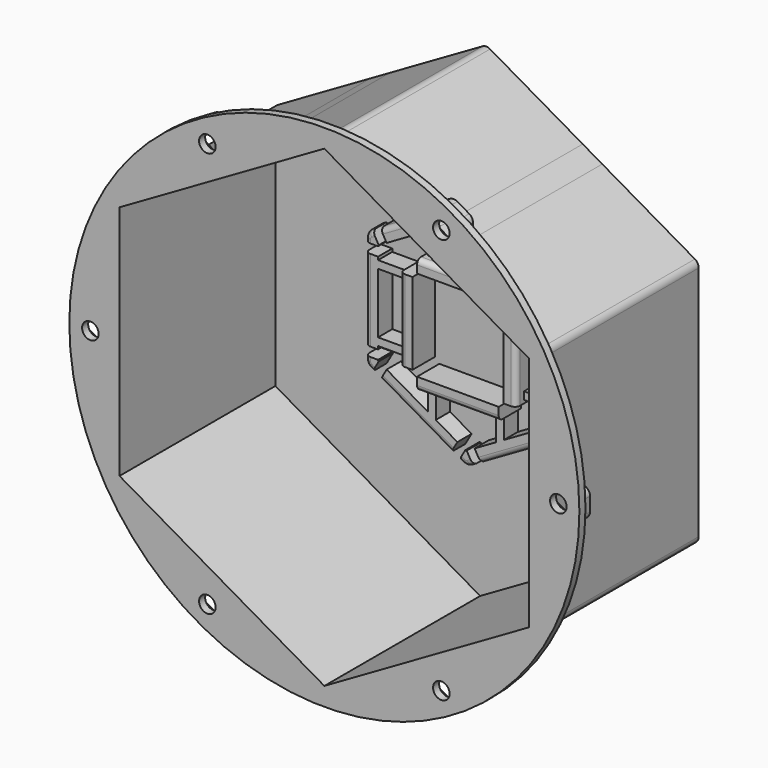
from build123d import *

# Parameters (mm, degrees)
F0_W     = 11.764
F0_H     = 3
F0_H_2   = 23.8
F0_W_2   = 5
F0_H_3   = 3.6
F1_DEPTH = 3
F2_DEPTH = 79.8
F3_START = 76.8
F0_R     = 100.55
F3_DEPTH = 3
F4_START = 73.8
F0_W_3   = 0.8
F0_H_4   = 8.8911941455
F4_DEPTH = 6
F5_D     = 6.5278
F6_DEPTH = 14
F7_R     = 2
F8_DEPTH = 10
F9_R     = 2


with BuildPart() as f1:
    # F0 (on Front) → F1 (new body)
    with BuildSketch(Plane.XZ):
        Polygon((0, -93.2420684741), (80.75, -46.6210342371), (80.75, 46.6210342371), (0, 93.2420684741), (-80.75, 46.6210342371), (-80.75, -46.6210342371), align=None)
        with BuildLine():
            ThreePointArc((39.664, -21.1679702696), (39.2620762114, -22.6679702696), (38.164, -23.7660464809))
            Line((38.164, -23.7660464809), (36.8927187079, -24.5000210771))
            Line((36.8927187079, -24.5000210771), (33.7750272543, -26.3000210771))
            Line((33.7750272543, -26.3000210771), (5.8889727457, -42.4000421543))
            Line((5.8889727457, -42.4000421543), (2.7712812921, -44.2000421543))
            Line((2.7712812921, -44.2000421543), (1.5, -44.9340167505))
            ThreePointArc((1.5, -44.9340167505), (0, -45.3359405391), (-1.5, -44.9340167505))
            Line((-1.5, -44.9340167505), (-2.7712812921, -44.2000421543))
            Line((-2.7712812921, -44.2000421543), (-5.8889727457, -42.4000421543))
            Line((-5.8889727457, -42.4000421543), (-33.7750272543, -26.3000210771))
            Line((-33.7750272543, -26.3000210771), (-36.8927187079, -24.5000210771))
            Line((-36.8927187079, -24.5000210771), (-38.164, -23.7660464809))
            ThreePointArc((-38.164, -23.7660464809), (-39.2620762114, -22.6679702696), (-39.664, -21.1679702696))
            Line((-39.664, -21.1679702696), (-39.664, -19.7000210771))
            Line((-39.664, -19.7000210771), (-39.664, -16.1000210771))
            Line((-39.664, -16.1000210771), (-39.664, 16.1000210771))
            Line((-39.664, 16.1000210771), (-39.664, 19.7000210771))
            Line((-39.664, 19.7000210771), (-39.664, 21.1679702696))
            ThreePointArc((-39.664, 21.1679702696), (-39.2620762114, 22.6679702696), (-38.164, 23.7660464809))
            Line((-38.164, 23.7660464809), (-36.8927187079, 24.5000210771))
            Line((-36.8927187079, 24.5000210771), (-33.7750272543, 26.3000210771))
            Line((-33.7750272543, 26.3000210771), (-5.8889727457, 42.4000421543))
            Line((-5.8889727457, 42.4000421543), (-2.7712812921, 44.2000421543))
            Line((-2.7712812921, 44.2000421543), (-1.5, 44.9340167505))
            ThreePointArc((-1.5, 44.9340167505), (0, 45.3359405391), (1.5, 44.9340167505))
            Line((1.5, 44.9340167505), (2.7712812921, 44.2000421543))
            Line((2.7712812921, 44.2000421543), (5.8889727457, 42.4000421543))
            Line((5.8889727457, 42.4000421543), (33.7750272543, 26.3000210771))
            Line((33.7750272543, 26.3000210771), (36.8927187079, 24.5000210771))
            Line((36.8927187079, 24.5000210771), (38.164, 23.7660464809))
            ThreePointArc((38.164, 23.7660464809), (39.2620762114, 22.6679702696), (39.664, 21.1679702696))
            Line((39.664, 21.1679702696), (39.664, 19.7000210771))
            Line((39.664, 19.7000210771), (39.664, 16.1000210771))
            Line((39.664, 16.1000210771), (39.664, -16.1000210771))
            Line((39.664, -16.1000210771), (39.664, -19.7000210771))
            Line((39.664, -19.7000210771), (39.664, -21.1679702696))
        make_face(mode=Mode.SUBTRACT)
        with BuildLine():
            Line((31.2750272543, -21.9698940582), (34.3927187079, -20.1698940582))
            Line((34.3927187079, -20.1698940582), (34.664, -20.0132697312))
            Line((34.664, -20.0132697312), (34.664, -19.7000210771))
            Line((34.664, -19.7000210771), (34.664, -16.1000210771))
            Line((34.664, -16.1000210771), (34.664, -14.9))
            Line((34.664, -14.9), (22.9, -14.9))
            Line((22.9, -14.9), (22.9, -16.1))
            Line((22.9, -16.1), (22.9, -19.9))
            ThreePointArc((22.9, -19.9), (22.0213203436, -22.0213203436), (19.9, -22.9))
            Line((19.9, -22.9), (16.1, -22.9))
            Line((16.1, -22.9), (14.9, -22.9))
            Line((14.9, -22.9), (14.9, -31.4240204515))
            Line((14.9, -31.4240204515), (31.2750272543, -21.9698940582))
        make_face()
        Polygon((0.2712812921, -39.8699151354), (3.3889727457, -38.0699151354), (11.9, -33.156071259), (11.9, -22.9), (-11.9, -22.9), (-11.9, -33.156071259), (-3.3889727457, -38.0699151354), (-0.2712812921, -39.8699151354), (0, -40.0265394624), align=None)
        Polygon((-16.1, -17.9), (16.1, -17.9), (17.9, -17.9), (17.9, -16.1), (17.9, 16.1), (17.9, 17.9), (16.1, 17.9), (-16.1, 17.9), (-17.9, 17.9), (-17.9, 16.1), (-17.9, -16.1), (-17.9, -17.9), align=None)
        with BuildLine():
            Line((-22.9, 14.9), (-22.9, 16.1))
            Line((-22.9, 16.1), (-22.9, 19.9))
            ThreePointArc((-22.9, 19.9), (-22.0213203436, 22.0213203436), (-19.9, 22.9))
            Line((-19.9, 22.9), (-16.1, 22.9))
            Line((-16.1, 22.9), (-14.9, 22.9))
            Line((-14.9, 22.9), (-14.9, 31.4240204515))
            Line((-14.9, 31.4240204515), (-31.2750272543, 21.9698940582))
            Line((-31.2750272543, 21.9698940582), (-34.3927187079, 20.1698940582))
            Line((-34.3927187079, 20.1698940582), (-34.664, 20.0132697312))
            Line((-34.664, 20.0132697312), (-34.664, 19.7000210771))
            Line((-34.664, 19.7000210771), (-34.664, 16.1000210771))
            Line((-34.664, 16.1000210771), (-34.664, 14.9))
            Line((-34.664, 14.9), (-22.9, 14.9))
        make_face()
        Polygon((-14.9, 22.9), (-11.9, 22.9), (-11.9, 33.156071259), (-14.9, 31.4240204515), align=None)
        Polygon((11.9, 33.156071259), (3.3889727457, 38.0699151354), (0.2712812921, 39.8699151354), (0, 40.0265394624), (-0.2712812921, 39.8699151354), (-3.3889727457, 38.0699151354), (-11.9, 33.156071259), (-11.9, 22.9), (11.9, 22.9), align=None)
        Polygon((14.9, 22.9), (14.9, 31.4240204515), (11.9, 33.156071259), (11.9, 22.9), align=None)
        with BuildLine():
            Line((34.664, 14.9), (34.664, 16.1000210771))
            Line((34.664, 16.1000210771), (34.664, 19.7000210771))
            Line((34.664, 19.7000210771), (34.664, 20.0132697312))
            Line((34.664, 20.0132697312), (34.3927187079, 20.1698940582))
            Line((34.3927187079, 20.1698940582), (31.2750272543, 21.9698940582))
            Line((31.2750272543, 21.9698940582), (14.9, 31.4240204515))
            Line((14.9, 31.4240204515), (14.9, 22.9))
            Line((14.9, 22.9), (16.1, 22.9))
            Line((16.1, 22.9), (19.9, 22.9))
            ThreePointArc((19.9, 22.9), (22.0213203436, 22.0213203436), (22.9, 19.9))
            Line((22.9, 19.9), (22.9, 16.1))
            Line((22.9, 16.1), (22.9, 14.9))
            Line((22.9, 14.9), (34.664, 14.9))
        make_face()
        with Locations((28.782, 13.4)):
            Rectangle(F0_W, F0_H)
        with Locations((28.782, 0)):
            Rectangle(F0_W, F0_H_2)
        with Locations((28.782, -13.4)):
            Rectangle(F0_W, F0_H)
        with BuildLine():
            Line((31.2750272543, -21.9698940582), (34.3927187079, -20.1698940582))
            Line((34.3927187079, -20.1698940582), (34.664, -20.0132697312))
            Line((34.664, -20.0132697312), (34.664, -19.7000210771))
            Line((34.664, -19.7000210771), (34.664, -16.1000210771))
            Line((34.664, -16.1000210771), (34.664, -14.9))
            Line((34.664, -14.9), (22.9, -14.9))
            Line((22.9, -14.9), (22.9, -16.1))
            Line((22.9, -16.1), (22.9, -19.9))
            ThreePointArc((22.9, -19.9), (22.0213203436, -22.0213203436), (19.9, -22.9))
            Line((19.9, -22.9), (16.1, -22.9))
            Line((16.1, -22.9), (14.9, -22.9))
            Line((14.9, -22.9), (14.9, -31.4240204515))
            Line((14.9, -31.4240204515), (31.2750272543, -21.9698940582))
        make_face()
        Polygon((0.2712812921, -39.8699151354), (3.3889727457, -38.0699151354), (11.9, -33.156071259), (11.9, -22.9), (-11.9, -22.9), (-11.9, -33.156071259), (-3.3889727457, -38.0699151354), (-0.2712812921, -39.8699151354), (0, -40.0265394624), align=None)
        Polygon((-11.9, -33.156071259), (-11.9, -22.9), (-14.9, -22.9), (-14.9, -31.4240204515), align=None)
        with BuildLine():
            Line((-14.9, -31.4240204515), (-14.9, -22.9))
            Line((-14.9, -22.9), (-16.1, -22.9))
            Line((-16.1, -22.9), (-19.9, -22.9))
            ThreePointArc((-19.9, -22.9), (-22.0213203436, -22.0213203436), (-22.9, -19.9))
            Line((-22.9, -19.9), (-22.9, -16.1))
            Line((-22.9, -16.1), (-22.9, -14.9))
            Line((-22.9, -14.9), (-34.664, -14.9))
            Line((-34.664, -14.9), (-34.664, -16.1000210771))
            Line((-34.664, -16.1000210771), (-34.664, -19.7000210771))
            Line((-34.664, -19.7000210771), (-34.664, -20.0132697312))
            Line((-34.664, -20.0132697312), (-34.3927187079, -20.1698940582))
            Line((-34.3927187079, -20.1698940582), (-31.2750272543, -21.9698940582))
            Line((-31.2750272543, -21.9698940582), (-14.9, -31.4240204515))
        make_face()
        with Locations((-28.782, -13.4)):
            Rectangle(F0_W, F0_H)
        with Locations((-28.782, 0)):
            Rectangle(F0_W, F0_H_2)
        with Locations((-28.782, 13.4)):
            Rectangle(F0_W, F0_H)
        Polygon((3.3889727457, 38.0699151354), (5.8889727457, 42.4000421543), (2.7712812921, 44.2000421543), (0.2712812921, 39.8699151354), align=None)
        Polygon((34.3927187079, 20.1698940582), (36.8927187079, 24.5000210771), (33.7750272543, 26.3000210771), (31.2750272543, 21.9698940582), align=None)
        Polygon((-0.2712812921, 39.8699151354), (-2.7712812921, 44.2000421543), (-5.8889727457, 42.4000421543), (-3.3889727457, 38.0699151354), align=None)
        with Locations((-37.164, 17.9000210771)):
            Rectangle(F0_W_2, F0_H_3)
        with Locations((-37.164, -17.9000210771)):
            Rectangle(F0_W_2, F0_H_3)
        Polygon((-5.8889727457, -42.4000421543), (-2.7712812921, -44.2000421543), (-0.2712812921, -39.8699151354), (-3.3889727457, -38.0699151354), align=None)
        Polygon((2.7712812921, -44.2000421543), (5.8889727457, -42.4000421543), (3.3889727457, -38.0699151354), (0.2712812921, -39.8699151354), align=None)
        Polygon((33.7750272543, -26.3000210771), (36.8927187079, -24.5000210771), (34.3927187079, -20.1698940582), (31.2750272543, -21.9698940582), align=None)
        with Locations((37.164, -17.9000210771)):
            Rectangle(F0_W_2, F0_H_3)
        with Locations((37.164, 17.9000210771)):
            Rectangle(F0_W_2, F0_H_3)
        Polygon((-31.2750272543, 21.9698940582), (-33.7750272543, 26.3000210771), (-36.8927187079, 24.5000210771), (-34.3927187079, 20.1698940582), align=None)
        Polygon((-36.8927187079, -24.5000210771), (-33.7750272543, -26.3000210771), (-31.2750272543, -21.9698940582), (-34.3927187079, -20.1698940582), align=None)
        with BuildLine():
            Line((17.9, 16.1), (22.9, 16.1))
            Line((22.9, 16.1), (22.9, 19.9))
            ThreePointArc((22.9, 19.9), (22.0213203436, 22.0213203436), (19.9, 22.9))
            Line((19.9, 22.9), (16.1, 22.9))
            Line((16.1, 22.9), (16.1, 17.9))
            Line((16.1, 17.9), (17.9, 17.9))
            Line((17.9, 17.9), (17.9, 16.1))
        make_face()
        with BuildLine():
            Line((-22.9, 16.1), (-17.9, 16.1))
            Line((-17.9, 16.1), (-17.9, 17.9))
            Line((-17.9, 17.9), (-16.1, 17.9))
            Line((-16.1, 17.9), (-16.1, 22.9))
            Line((-16.1, 22.9), (-19.9, 22.9))
            ThreePointArc((-19.9, 22.9), (-22.0213203436, 22.0213203436), (-22.9, 19.9))
            Line((-22.9, 19.9), (-22.9, 16.1))
        make_face()
        with BuildLine():
            Line((-16.1, -22.9), (-16.1, -17.9))
            Line((-16.1, -17.9), (-17.9, -17.9))
            Line((-17.9, -17.9), (-17.9, -16.1))
            Line((-17.9, -16.1), (-22.9, -16.1))
            Line((-22.9, -16.1), (-22.9, -19.9))
            ThreePointArc((-22.9, -19.9), (-22.0213203436, -22.0213203436), (-19.9, -22.9))
            Line((-19.9, -22.9), (-16.1, -22.9))
        make_face()
        with BuildLine():
            Line((16.1, -17.9), (16.1, -22.9))
            Line((16.1, -22.9), (19.9, -22.9))
            ThreePointArc((19.9, -22.9), (22.0213203436, -22.0213203436), (22.9, -19.9))
            Line((22.9, -19.9), (22.9, -16.1))
            Line((22.9, -16.1), (17.9, -16.1))
            Line((17.9, -16.1), (17.9, -17.9))
            Line((17.9, -17.9), (16.1, -17.9))
        make_face()
        Polygon((11.9, -33.156071259), (14.9, -31.4240204515), (14.9, -22.9), (11.9, -22.9), align=None)
    extrude(amount=F1_DEPTH)

    # F0 (on Front) → F2 (join)
    with BuildSketch(Plane.XZ):
        with BuildLine():
            Line((83.75, 4.4455970728), (83.75, 46.6210342371))
            ThreePointArc((83.75, 46.6210342371), (83.3480762114, 48.1210342371), (82.25, 49.2191104484))
            Line((82.25, 49.2191104484), (45.725, 70.3068290306))
            Line((45.725, 70.3068290306), (38.025, 74.7524261033))
            Line((38.025, 74.7524261033), (1.5, 95.8401446855))
            ThreePointArc((1.5, 95.8401446855), (0, 96.2420684741), (-1.5, 95.8401446855))
            Line((-1.5, 95.8401446855), (-38.025, 74.7524261033))
            Line((-38.025, 74.7524261033), (-45.725, 70.3068290306))
            Line((-45.725, 70.3068290306), (-82.25, 49.2191104484))
            ThreePointArc((-82.25, 49.2191104484), (-83.3480762114, 48.1210342371), (-83.75, 46.6210342371))
            Line((-83.75, 46.6210342371), (-83.75, 4.1800841187))
            Line((-83.75, 4.1800841187), (-83.75, -3.9581455377))
            Line((-83.75, -3.9581455377), (-83.75, -46.6210342371))
            ThreePointArc((-83.75, -46.6210342371), (-83.3480762114, -48.1210342371), (-82.25, -49.2191104484))
            Line((-82.25, -49.2191104484), (-45.7833874392, -70.2731190268))
            Line((-45.7833874392, -70.2731190268), (-38.0831462279, -74.718855363))
            Line((-38.0831462279, -74.718855363), (-1.5, -95.8401446855))
            ThreePointArc((-1.5, -95.8401446855), (0, -96.2420684741), (1.5, -95.8401446855))
            Line((1.5, -95.8401446855), (38.1444882108, -74.6834395526))
            Line((38.1444882108, -74.6834395526), (45.8568599601, -70.2306996471))
            Line((45.8568599601, -70.2306996471), (82.25, -49.2191104484))
            ThreePointArc((82.25, -49.2191104484), (83.3480762114, -48.1210342371), (83.75, -46.6210342371))
            Line((83.75, -46.6210342371), (83.75, -4.4455970728))
            Line((83.75, -4.4455970728), (83.75, 4.4455970728))
        make_face()
        Polygon((80.75, 46.6210342371), (80.75, -46.6210342371), (0, -93.2420684741), (-80.75, -46.6210342371), (-80.75, 46.6210342371), (0, 93.2420684741), align=None, mode=Mode.SUBTRACT)
    extrude(amount=F2_DEPTH)

    # F0 (on Front) → F3 (join)
    with BuildSketch(Plane.XZ.offset(F3_START)):
        Circle(F0_R)
        with BuildLine():
            ThreePointArc((82.25, 49.2191104484), (83.3480762114, 48.1210342371), (83.75, 46.6210342371))
            Line((83.75, 46.6210342371), (83.75, 4.4455970728))
            Line((83.75, 4.4455970728), (84.55, 4.4455970728))
            Line((84.55, 4.4455970728), (90.75, 8.0251687417))
            ThreePointArc((90.75, 8.0251687417), (92.25, 8.4270925304), (93.75, 8.0251687417))
            Line((93.75, 8.0251687417), (98.45, 5.3116224765))
            ThreePointArc((98.45, 5.3116224765), (99.5480762114, 4.2135462652), (99.95, 2.7135462652))
            Line((99.95, 2.7135462652), (99.95, -2.7135462652))
            ThreePointArc((99.95, -2.7135462652), (99.5480762114, -4.2135462652), (98.45, -5.3116224765))
            Line((98.45, -5.3116224765), (93.75, -8.0251687417))
            ThreePointArc((93.75, -8.0251687417), (92.25, -8.4270925304), (90.75, -8.0251687417))
            Line((90.75, -8.0251687417), (84.55, -4.4455970728))
            Line((84.55, -4.4455970728), (83.75, -4.4455970728))
            Line((83.75, -4.4455970728), (83.75, -46.6210342371))
            ThreePointArc((83.75, -46.6210342371), (83.3480762114, -48.1210342371), (82.25, -49.2191104484))
            Line((82.25, -49.2191104484), (45.8568599601, -70.2306996471))
            Line((45.8568599601, -70.2306996471), (46.2835018729, -71.0010622594))
            Line((46.2835018729, -71.0010622594), (52.4187041842, -74.6905914884))
            ThreePointArc((52.4187041842, -74.6905914884), (53.4970306734, -75.8080684299), (53.8721503359, -77.3149950939))
            Line((53.8721503359, -77.3149950939), (53.7754024395, -82.7412252012))
            ThreePointArc((53.7754024395, -82.7412252012), (53.3468022646, -84.2338218051), (52.2293253232, -85.3121482943))
            Line((52.2293253232, -85.3121482943), (47.4816982552, -87.9414772119))
            ThreePointArc((47.4816982552, -87.9414772119), (45.9747715912, -88.3165968744), (44.4821749873, -87.8879966995))
            Line((44.4821749873, -87.8879966995), (39.8312958158, -85.0910955098))
            ThreePointArc((39.8312958158, -85.0910955098), (38.7529693266, -83.9736185684), (38.3778496641, -82.4666919043))
            Line((38.3778496641, -82.4666919043), (38.5054745488, -75.3086862308))
            Line((38.5054745488, -75.3086862308), (38.1444882108, -74.6834395526))
            Line((38.1444882108, -74.6834395526), (1.5, -95.8401446855))
            ThreePointArc((1.5, -95.8401446855), (0, -96.2420684741), (-1.5, -95.8401446855))
            Line((-1.5, -95.8401446855), (-38.0831462279, -74.718855363))
            Line((-38.0831462279, -74.718855363), (-38.460428699, -75.3844391559))
            Line((-38.460428699, -75.3844391559), (-38.4037631222, -82.5433582325))
            ThreePointArc((-38.4037631222, -82.5433582325), (-38.79380162, -84.0464925253), (-39.8831520139, -85.1532257593))
            Line((-39.8831520139, -85.1532257593), (-44.5615267041, -87.9038881506))
            ThreePointArc((-44.5615267041, -87.9038881506), (-46.0582984359, -88.3176720495), (-47.5614327287, -87.9276335517))
            Line((-47.5614327287, -87.9276335517), (-52.2827635819, -85.2513734172))
            ThreePointArc((-52.2827635819, -85.2513734172), (-53.3894968159, -84.1620230233), (-53.8032807148, -82.6652512916))
            Line((-53.8032807148, -82.6652512916), (-53.8462368778, -77.2383287657))
            ThreePointArc((-53.8462368778, -77.2383287657), (-53.45619838, -75.7351944729), (-52.3668479861, -74.628461239))
            Line((-52.3668479861, -74.628461239), (-46.1953749905, -70.9999278717))
            Line((-46.1953749905, -70.9999278717), (-45.7833874392, -70.2731190268))
            Line((-45.7833874392, -70.2731190268), (-82.25, -49.2191104484))
            ThreePointArc((-82.25, -49.2191104484), (-83.3480762114, -48.1210342371), (-83.75, -46.6210342371))
            Line((-83.75, -46.6210342371), (-83.75, -3.9581455377))
            Line((-83.75, -3.9581455377), (-85.1501733085, -3.9764250951))
            Line((-85.1501733085, -3.9764250951), (-90.6552047962, -7.2513100663))
            ThreePointArc((-90.6552047962, -7.2513100663), (-92.149830231, -7.6727807551), (-93.654949171, -7.290472361))
            Line((-93.654949171, -7.290472361), (-97.7324211262, -5.0067881935))
            ThreePointArc((-97.7324211262, -5.0067881935), (-98.844738167, -3.9231399422), (-99.2662088558, -2.4285145074))
            Line((-99.2662088558, -2.4285145074), (-99.3272163301, 2.2445218728))
            ThreePointArc((-99.3272163301, 2.2445218728), (-98.9449079361, 3.7496408129), (-97.8612596847, 4.8619578537))
            Line((-97.8612596847, 4.8619578537), (-93.8447952038, 7.2513100663))
            ThreePointArc((-93.8447952038, 7.2513100663), (-92.350169769, 7.6727807551), (-90.845050829, 7.290472361))
            Line((-90.845050829, 7.290472361), (-85.2564015056, 4.1604177297))
            Line((-85.2564015056, 4.1604177297), (-83.75, 4.1800841187))
            Line((-83.75, 4.1800841187), (-83.75, 46.6210342371))
            ThreePointArc((-83.75, 46.6210342371), (-83.3480762114, 48.1210342371), (-82.25, 49.2191104484))
            Line((-82.25, 49.2191104484), (-45.725, 70.3068290306))
            Line((-45.725, 70.3068290306), (-46.125, 70.9996493536))
            Line((-46.125, 70.9996493536), (-52.325, 74.5792210226))
            ThreePointArc((-52.325, 74.5792210226), (-53.4230762114, 75.6772972339), (-53.825, 77.1772972339))
            Line((-53.825, 77.1772972339), (-53.825, 82.6043897643))
            ThreePointArc((-53.825, 82.6043897643), (-53.4230762114, 84.1043897643), (-52.325, 85.2024659757))
            Line((-52.325, 85.2024659757), (-47.625, 87.9160122409))
            ThreePointArc((-47.625, 87.9160122409), (-46.125, 88.3179360295), (-44.625, 87.9160122409))
            Line((-44.625, 87.9160122409), (-39.925, 85.2024659757))
            ThreePointArc((-39.925, 85.2024659757), (-38.8269237886, 84.1043897643), (-38.425, 82.6043897643))
            Line((-38.425, 82.6043897643), (-38.425, 75.4452464264))
            Line((-38.425, 75.4452464264), (-38.025, 74.7524261033))
            Line((-38.025, 74.7524261033), (-1.5, 95.8401446855))
            ThreePointArc((-1.5, 95.8401446855), (0, 96.2420684741), (1.5, 95.8401446855))
            Line((1.5, 95.8401446855), (38.025, 74.7524261033))
            Line((38.025, 74.7524261033), (38.425, 75.4452464264))
            Line((38.425, 75.4452464264), (38.425, 82.6043897643))
            ThreePointArc((38.425, 82.6043897643), (38.8269237886, 84.1043897643), (39.925, 85.2024659757))
            Line((39.925, 85.2024659757), (44.625, 87.9160122409))
            ThreePointArc((44.625, 87.9160122409), (46.125, 88.3179360295), (47.625, 87.9160122409))
            Line((47.625, 87.9160122409), (52.325, 85.2024659757))
            ThreePointArc((52.325, 85.2024659757), (53.4230762114, 84.1043897643), (53.825, 82.6043897643))
            Line((53.825, 82.6043897643), (53.825, 77.1772972339))
            ThreePointArc((53.825, 77.1772972339), (53.4230762114, 75.6772972339), (52.325, 74.5792210226))
            Line((52.325, 74.5792210226), (46.125, 70.9996493536))
            Line((46.125, 70.9996493536), (45.725, 70.3068290306))
            Line((45.725, 70.3068290306), (82.25, 49.2191104484))
        make_face(mode=Mode.SUBTRACT)
    extrude(amount=F3_DEPTH)



with BuildPart() as f3:
    # F0 (on Front) → F3, piece 2 (new body)
    with BuildSketch(Plane.XZ.offset(F3_START)):
        Polygon((-46.2600288495, 73.3104356691), (-40.4937140766, 76.4837011702), (-40.3586852272, 83.0641090003), (-45.9899711505, 86.4712513292), (-51.7562859234, 83.297985828), (-51.8913147728, 76.717577998), align=None)
    extrude(amount=F3_DEPTH)


with BuildPart() as f3b:
    # F0 (on Front) → F3, piece 3 (new body)
    with BuildSketch(Plane.XZ.offset(F3_START)):
        Polygon((51.825, 76.5999469647), (51.825, 83.1817400335), (46.125, 86.4726365679), (40.425, 83.1817400335), (40.425, 76.5999469647), (46.125, 73.3090504304), align=None)
    extrude(amount=F3_DEPTH)


with BuildPart() as f3c:
    # F0 (on Front) → F3, piece 4 (new body)
    with BuildSketch(Plane.XZ.offset(F3_START)):
        Polygon((92.25, -6.5817930688), (97.95, -3.2908965344), (97.95, 3.2908965344), (92.25, 6.5817930688), (86.55, 3.2908965344), (86.55, -3.2908965344), align=None)
    extrude(amount=F3_DEPTH)


with BuildPart() as f3d:
    # F0 (on Front) → F3, piece 5 (new body)
    with BuildSketch(Plane.XZ.offset(F3_START)):
        Polygon((46.0076674448, -86.4715906506), (51.7654279314, -83.2828300484), (51.8827604867, -76.7020828969), (46.2423325552, -73.3100963477), (40.4845720686, -76.4988569499), (40.3672395133, -83.0796041013), align=None)
    extrude(amount=F3_DEPTH)


with BuildPart() as f3e:
    # F0 (on Front) → F3, piece 6 (new body)
    with BuildSketch(Plane.XZ.offset(F3_START)):
        Polygon((-46.0729042278, -86.4724303921), (-40.3991306673, -83.1365206835), (-40.4512264395, -76.5549337905), (-46.1770957722, -73.3092566061), (-51.8508693327, -76.6451663147), (-51.7987735605, -83.2267532078), align=None)
    extrude(amount=F3_DEPTH)


with BuildPart() as f3f:
    # F0 (on Front) → F3, piece 7 (new body)
    with BuildSketch(Plane.XZ.offset(F3_START)):
        Polygon((-92.1640806267, -6.5812322449), (-86.5075260011, -3.2162077625), (-86.5934453744, 3.3650244824), (-92.3359193733, 6.5812322449), (-97.9924739989, 3.2162077625), (-97.9065546256, -3.3650244824), align=None)
    extrude(amount=F3_DEPTH)


with BuildPart() as f1_1:
    add(f1.part)

    add(f3.part)  # F4 merges F3

    add(f3b.part)  # F4 merges F3b

    add(f3c.part)  # F4 merges F3c

    add(f3d.part)  # F4 merges F3d

    add(f3e.part)  # F4 merges F3e

    add(f3f.part)  # F4 merges F3f
    # F0 (on Front) → F4 (join)
    with BuildSketch(Plane.XZ.offset(F4_START)):
        with BuildLine():
            Line((-46.125, 70.9996493536), (-38.425, 75.4452464264))
            Line((-38.425, 75.4452464264), (-38.425, 82.6043897643))
            ThreePointArc((-38.425, 82.6043897643), (-38.8269237886, 84.1043897643), (-39.925, 85.2024659757))
            Line((-39.925, 85.2024659757), (-44.625, 87.9160122409))
            ThreePointArc((-44.625, 87.9160122409), (-46.125, 88.3179360295), (-47.625, 87.9160122409))
            Line((-47.625, 87.9160122409), (-52.325, 85.2024659757))
            ThreePointArc((-52.325, 85.2024659757), (-53.4230762114, 84.1043897643), (-53.825, 82.6043897643))
            Line((-53.825, 82.6043897643), (-53.825, 77.1772972339))
            ThreePointArc((-53.825, 77.1772972339), (-53.4230762114, 75.6772972339), (-52.325, 74.5792210226))
            Line((-52.325, 74.5792210226), (-46.125, 70.9996493536))
        make_face()
        Polygon((-40.3586852272, 83.0641090003), (-40.4937140766, 76.4837011702), (-46.2600288495, 73.3104356691), (-51.8913147728, 76.717577998), (-51.7562859234, 83.297985828), (-45.9899711505, 86.4712513292), align=None, mode=Mode.SUBTRACT)
        Polygon((-45.725, 70.3068290306), (-38.025, 74.7524261033), (-38.425, 75.4452464264), (-46.125, 70.9996493536), align=None)
        with BuildLine():
            Line((38.425, 75.4452464264), (46.125, 70.9996493536))
            Line((46.125, 70.9996493536), (52.325, 74.5792210226))
            ThreePointArc((52.325, 74.5792210226), (53.4230762114, 75.6772972339), (53.825, 77.1772972339))
            Line((53.825, 77.1772972339), (53.825, 82.6043897643))
            ThreePointArc((53.825, 82.6043897643), (53.4230762114, 84.1043897643), (52.325, 85.2024659757))
            Line((52.325, 85.2024659757), (47.625, 87.9160122409))
            ThreePointArc((47.625, 87.9160122409), (46.125, 88.3179360295), (44.625, 87.9160122409))
            Line((44.625, 87.9160122409), (39.925, 85.2024659757))
            ThreePointArc((39.925, 85.2024659757), (38.8269237886, 84.1043897643), (38.425, 82.6043897643))
            Line((38.425, 82.6043897643), (38.425, 75.4452464264))
        make_face()
        Polygon((46.125, 86.4726365679), (51.825, 83.1817400335), (51.825, 76.5999469647), (46.125, 73.3090504304), (40.425, 76.5999469647), (40.425, 83.1817400335), align=None, mode=Mode.SUBTRACT)
        Polygon((38.025, 74.7524261033), (45.725, 70.3068290306), (46.125, 70.9996493536), (38.425, 75.4452464264), align=None)
        with BuildLine():
            Line((90.75, 8.0251687417), (84.55, 4.4455970728))
            Line((84.55, 4.4455970728), (84.55, -4.4455970728))
            Line((84.55, -4.4455970728), (90.75, -8.0251687417))
            ThreePointArc((90.75, -8.0251687417), (92.25, -8.4270925304), (93.75, -8.0251687417))
            Line((93.75, -8.0251687417), (98.45, -5.3116224765))
            ThreePointArc((98.45, -5.3116224765), (99.5480762114, -4.2135462652), (99.95, -2.7135462652))
            Line((99.95, -2.7135462652), (99.95, 2.7135462652))
            ThreePointArc((99.95, 2.7135462652), (99.5480762114, 4.2135462652), (98.45, 5.3116224765))
            Line((98.45, 5.3116224765), (93.75, 8.0251687417))
            ThreePointArc((93.75, 8.0251687417), (92.25, 8.4270925304), (90.75, 8.0251687417))
        make_face()
        Polygon((97.95, 3.2908965344), (97.95, -3.2908965344), (92.25, -6.5817930688), (86.55, -3.2908965344), (86.55, 3.2908965344), (92.25, 6.5817930688), align=None, mode=Mode.SUBTRACT)
        with Locations((84.15, 0)):
            Rectangle(F0_W_3, F0_H_4)
        with BuildLine():
            Line((52.4187041842, -74.6905914884), (46.2835018729, -71.0010622594))
            Line((46.2835018729, -71.0010622594), (38.5054745488, -75.3086862308))
            Line((38.5054745488, -75.3086862308), (38.3778496641, -82.4666919043))
            ThreePointArc((38.3778496641, -82.4666919043), (38.7529693266, -83.9736185684), (39.8312958158, -85.0910955098))
            Line((39.8312958158, -85.0910955098), (44.4821749873, -87.8879966995))
            ThreePointArc((44.4821749873, -87.8879966995), (45.9747715912, -88.3165968744), (47.4816982552, -87.9414772119))
            Line((47.4816982552, -87.9414772119), (52.2293253232, -85.3121482943))
            ThreePointArc((52.2293253232, -85.3121482943), (53.3468022646, -84.2338218051), (53.7754024395, -82.7412252012))
            Line((53.7754024395, -82.7412252012), (53.8721503359, -77.3149950939))
            ThreePointArc((53.8721503359, -77.3149950939), (53.4970306734, -75.8080684299), (52.4187041842, -74.6905914884))
        make_face()
        Polygon((51.8827604867, -76.7020828969), (51.7654279314, -83.2828300484), (46.0076674448, -86.4715906506), (40.3672395133, -83.0796041013), (40.4845720686, -76.4988569499), (46.2423325552, -73.3100963477), align=None, mode=Mode.SUBTRACT)
        Polygon((46.2835018729, -71.0010622594), (45.8568599601, -70.2306996471), (38.1444882108, -74.6834395526), (38.5054745488, -75.3086862308), align=None)
        with BuildLine():
            Line((-38.4037631222, -82.5433582325), (-38.460428699, -75.3844391559))
            Line((-38.460428699, -75.3844391559), (-46.1953749905, -70.9999278717))
            Line((-46.1953749905, -70.9999278717), (-52.3668479861, -74.628461239))
            ThreePointArc((-52.3668479861, -74.628461239), (-53.45619838, -75.7351944729), (-53.8462368778, -77.2383287657))
            Line((-53.8462368778, -77.2383287657), (-53.8032807148, -82.6652512916))
            ThreePointArc((-53.8032807148, -82.6652512916), (-53.3894968159, -84.1620230233), (-52.2827635819, -85.2513734172))
            Line((-52.2827635819, -85.2513734172), (-47.5614327287, -87.9276335517))
            ThreePointArc((-47.5614327287, -87.9276335517), (-46.0582984359, -88.3176720495), (-44.5615267041, -87.9038881506))
            Line((-44.5615267041, -87.9038881506), (-39.8831520139, -85.1532257593))
            ThreePointArc((-39.8831520139, -85.1532257593), (-38.79380162, -84.0464925253), (-38.4037631222, -82.5433582325))
        make_face()
        Polygon((-40.4512264395, -76.5549337905), (-40.3991306673, -83.1365206835), (-46.0729042278, -86.4724303921), (-51.7987735605, -83.2267532078), (-51.8508693327, -76.6451663147), (-46.1770957722, -73.3092566061), align=None, mode=Mode.SUBTRACT)
        Polygon((-38.460428699, -75.3844391559), (-38.0831462279, -74.718855363), (-45.7833874392, -70.2731190268), (-46.1953749905, -70.9999278717), align=None)
        with BuildLine():
            Line((-85.1501733085, -3.9764250951), (-85.2564015056, 4.1604177297))
            Line((-85.2564015056, 4.1604177297), (-90.845050829, 7.290472361))
            ThreePointArc((-90.845050829, 7.290472361), (-92.350169769, 7.6727807551), (-93.8447952038, 7.2513100663))
            Line((-93.8447952038, 7.2513100663), (-97.8612596847, 4.8619578537))
            ThreePointArc((-97.8612596847, 4.8619578537), (-98.9449079361, 3.7496408129), (-99.3272163301, 2.2445218728))
            Line((-99.3272163301, 2.2445218728), (-99.2662088558, -2.4285145074))
            ThreePointArc((-99.2662088558, -2.4285145074), (-98.844738167, -3.9231399422), (-97.7324211262, -5.0067881935))
            Line((-97.7324211262, -5.0067881935), (-93.654949171, -7.290472361))
            ThreePointArc((-93.654949171, -7.290472361), (-92.149830231, -7.6727807551), (-90.6552047962, -7.2513100663))
            Line((-90.6552047962, -7.2513100663), (-85.1501733085, -3.9764250951))
        make_face()
        Polygon((-86.5934453744, 3.3650244824), (-86.5075260011, -3.2162077625), (-92.1640806267, -6.5812322449), (-97.9065546256, -3.3650244824), (-97.9924739989, 3.2162077625), (-92.3359193733, 6.5812322449), align=None, mode=Mode.SUBTRACT)
        Polygon((-83.75, -3.9581455377), (-83.75, 4.1800841187), (-85.2564015056, 4.1604177297), (-85.1501733085, -3.9764250951), align=None)
    extrude(amount=F4_DEPTH)

    # F5 (through all)
    with Locations(Plane(origin=(0, 0, 0), x_dir=(1, 0, 0), z_dir=(0, 1, 0))):
        with Locations((-46.125, -79.8908434991), (46.125, -79.8908434991), (92.25, 0), (46.125, 79.8908434991), (-46.125, 79.8908434991), (-92.25, 0)):
            Hole(F5_D / 2)

    # F0 (on Front) → F6 (join)
    with BuildSketch(Plane.XZ):
        Polygon((11.9, -22.9), (14.9, -22.9), (16.1, -22.9), (16.1, -17.9), (-16.1, -17.9), (-16.1, -22.9), (-14.9, -22.9), (-11.9, -22.9), align=None)
        Polygon((16.1, 22.9), (14.9, 22.9), (11.9, 22.9), (-11.9, 22.9), (-14.9, 22.9), (-16.1, 22.9), (-16.1, 17.9), (16.1, 17.9), align=None)
        Polygon((-22.9, -16.1), (-17.9, -16.1), (-17.9, 16.1), (-22.9, 16.1), (-22.9, 14.9), (-22.9, 11.9), (-22.9, -11.9), (-22.9, -14.9), align=None)
        Polygon((22.9, -16.1), (22.9, -14.9), (22.9, -11.9), (22.9, 11.9), (22.9, 14.9), (22.9, 16.1), (17.9, 16.1), (17.9, -16.1), align=None)
    extrude(amount=F6_DEPTH)

    # F7
    f7_edges = [f1_1.edges().sort_by_distance(p)[0] for p in [
        (22.9, -14, 0),
        (0, -14, -22.9),
        (-22.9, -14, 0),
        (0, -14, 22.9),
    ]]
    fillet(f7_edges, radius=F7_R)

    # F0 (on Front) → F8 (join)
    with BuildSketch(Plane.XZ):
        with Locations((-28.782, -13.4)):
            Rectangle(F0_W, F0_H)
        with Locations((-28.782, 13.4)):
            Rectangle(F0_W, F0_H)
        Polygon((-14.9, 22.9), (-11.9, 22.9), (-11.9, 33.156071259), (-14.9, 31.4240204515), align=None)
        Polygon((14.9, 22.9), (14.9, 31.4240204515), (11.9, 33.156071259), (11.9, 22.9), align=None)
        with Locations((28.782, 13.4)):
            Rectangle(F0_W, F0_H)
        with Locations((28.782, -13.4)):
            Rectangle(F0_W, F0_H)
        Polygon((11.9, -33.156071259), (14.9, -31.4240204515), (14.9, -22.9), (11.9, -22.9), align=None)
        Polygon((-11.9, -33.156071259), (-11.9, -22.9), (-14.9, -22.9), (-14.9, -31.4240204515), align=None)
        Polygon((31.2750272543, 21.9698940582), (33.7750272543, 26.3000210771), (5.8889727457, 42.4000421543), (3.3889727457, 38.0699151354), (11.9, 33.156071259), (14.9, 31.4240204515), align=None)
        with BuildLine():
            Line((0.2712812921, 39.8699151354), (2.7712812921, 44.2000421543))
            Line((2.7712812921, 44.2000421543), (1.5, 44.9340167505))
            ThreePointArc((1.5, 44.9340167505), (0, 45.3359405391), (-1.5, 44.9340167505))
            Line((-1.5, 44.9340167505), (-2.7712812921, 44.2000421543))
            Line((-2.7712812921, 44.2000421543), (-0.2712812921, 39.8699151354))
            Line((-0.2712812921, 39.8699151354), (0, 40.0265394624))
            Line((0, 40.0265394624), (0.2712812921, 39.8699151354))
        make_face()
        Polygon((-14.9, 31.4240204515), (-11.9, 33.156071259), (-3.3889727457, 38.0699151354), (-5.8889727457, 42.4000421543), (-33.7750272543, 26.3000210771), (-31.2750272543, 21.9698940582), align=None)
        with BuildLine():
            Line((-39.664, 21.1679702696), (-39.664, 19.7000210771))
            Line((-39.664, 19.7000210771), (-34.664, 19.7000210771))
            Line((-34.664, 19.7000210771), (-34.664, 20.0132697312))
            Line((-34.664, 20.0132697312), (-34.3927187079, 20.1698940582))
            Line((-34.3927187079, 20.1698940582), (-36.8927187079, 24.5000210771))
            Line((-36.8927187079, 24.5000210771), (-38.164, 23.7660464809))
            ThreePointArc((-38.164, 23.7660464809), (-39.2620762114, 22.6679702696), (-39.664, 21.1679702696))
        make_face()
        Polygon((-34.664, -16.1000210771), (-34.664, -14.9), (-34.664, -11.9), (-34.664, 11.9), (-34.664, 14.9), (-34.664, 16.1000210771), (-39.664, 16.1000210771), (-39.664, -16.1000210771), align=None)
        with BuildLine():
            Line((-38.164, -23.7660464809), (-36.8927187079, -24.5000210771))
            Line((-36.8927187079, -24.5000210771), (-34.3927187079, -20.1698940582))
            Line((-34.3927187079, -20.1698940582), (-34.664, -20.0132697312))
            Line((-34.664, -20.0132697312), (-34.664, -19.7000210771))
            Line((-34.664, -19.7000210771), (-39.664, -19.7000210771))
            Line((-39.664, -19.7000210771), (-39.664, -21.1679702696))
            ThreePointArc((-39.664, -21.1679702696), (-39.2620762114, -22.6679702696), (-38.164, -23.7660464809))
        make_face()
        Polygon((-33.7750272543, -26.3000210771), (-5.8889727457, -42.4000421543), (-3.3889727457, -38.0699151354), (-11.9, -33.156071259), (-14.9, -31.4240204515), (-31.2750272543, -21.9698940582), align=None)
        with BuildLine():
            Line((1.5, -44.9340167505), (2.7712812921, -44.2000421543))
            Line((2.7712812921, -44.2000421543), (0.2712812921, -39.8699151354))
            Line((0.2712812921, -39.8699151354), (0, -40.0265394624))
            Line((0, -40.0265394624), (-0.2712812921, -39.8699151354))
            Line((-0.2712812921, -39.8699151354), (-2.7712812921, -44.2000421543))
            Line((-2.7712812921, -44.2000421543), (-1.5, -44.9340167505))
            ThreePointArc((-1.5, -44.9340167505), (0, -45.3359405391), (1.5, -44.9340167505))
        make_face()
        Polygon((5.8889727457, -42.4000421543), (33.7750272543, -26.3000210771), (31.2750272543, -21.9698940582), (14.9, -31.4240204515), (11.9, -33.156071259), (3.3889727457, -38.0699151354), align=None)
        with BuildLine():
            Line((36.8927187079, -24.5000210771), (38.164, -23.7660464809))
            ThreePointArc((38.164, -23.7660464809), (39.2620762114, -22.6679702696), (39.664, -21.1679702696))
            Line((39.664, -21.1679702696), (39.664, -19.7000210771))
            Line((39.664, -19.7000210771), (34.664, -19.7000210771))
            Line((34.664, -19.7000210771), (34.664, -20.0132697312))
            Line((34.664, -20.0132697312), (34.3927187079, -20.1698940582))
            Line((34.3927187079, -20.1698940582), (36.8927187079, -24.5000210771))
        make_face()
        Polygon((34.664, -16.1000210771), (39.664, -16.1000210771), (39.664, 16.1000210771), (34.664, 16.1000210771), (34.664, 14.9), (34.664, 11.9), (34.664, -11.9), (34.664, -14.9), align=None)
        with BuildLine():
            Line((34.664, 19.7000210771), (39.664, 19.7000210771))
            Line((39.664, 19.7000210771), (39.664, 21.1679702696))
            ThreePointArc((39.664, 21.1679702696), (39.2620762114, 22.6679702696), (38.164, 23.7660464809))
            Line((38.164, 23.7660464809), (36.8927187079, 24.5000210771))
            Line((36.8927187079, 24.5000210771), (34.3927187079, 20.1698940582))
            Line((34.3927187079, 20.1698940582), (34.664, 20.0132697312))
            Line((34.664, 20.0132697312), (34.664, 19.7000210771))
        make_face()
    extrude(amount=F8_DEPTH)

    # F9
    f9_edges = [f1_1.edges().sort_by_distance(p)[0] for p in [
        (-19.832, -10, 34.350032),
        (-39.262076, -10, 22.66797),
        (0, -10, 45.335941),
        (39.262076, -10, 22.66797),
        (19.832, -10, 34.350032),
        (39.664, -10, 0),
        (-39.664, -10, 0),
        (-39.262076, -10, -22.66797),
        (-19.832, -10, -34.350032),
        (39.262076, -10, -22.66797),
        (19.832, -10, -34.350032),
        (0, -10, -45.335941),
    ]]
    fillet(f9_edges, radius=F9_R)


solid = f1_1.part
